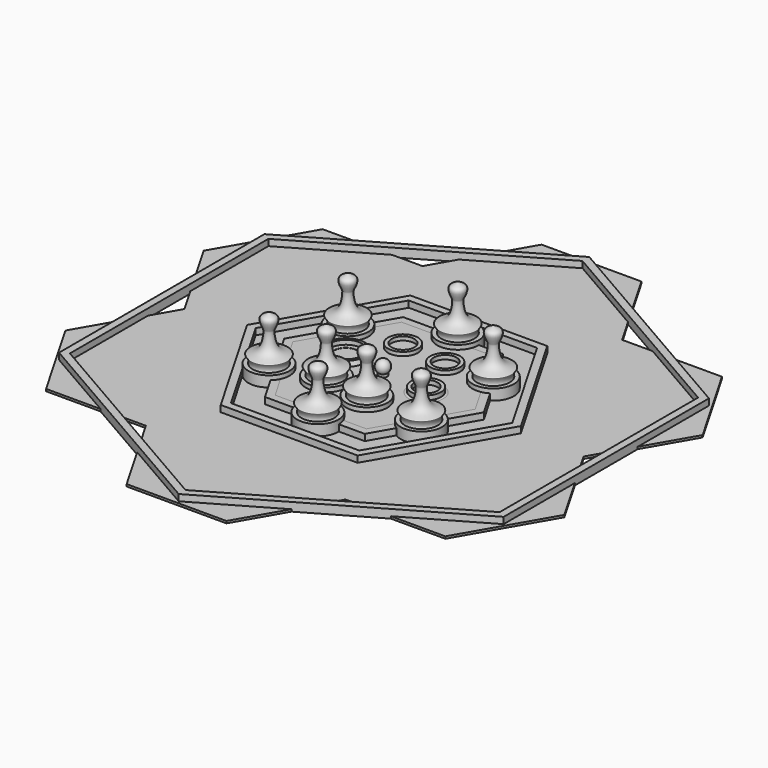
from build123d import *

# Parameters (mm, degrees)
BODY005_PLACEMENT_ANGLE = 180
PAD_DEPTH               = 0.75
PAD001_DEPTH            = 3
PAD002_DEPTH            = 3
PAD003_DEPTH            = 3
PAD004_DEPTH            = 3


with BuildPart() as flag:
    # Sketch001 → Revolution (revolve)
    with BuildSketch(Plane.XZ):
        with BuildLine():
            Line((0, 0), (-4, 0))
            Line((-4, 0), (-5.25, 2.5))
            Line((-5.25, 2.5), (-3, 2))
            Line((-3, 2), (-1.5, 2))
            Line((-1.5, 2), (-1.5, 4))
            ThreePointArc((0, 8), (-2.136001, 6.51975), (-1.5, 4))
            Line((0, 8), (0, 0))
        make_face()
    revolve(axis=Axis((0, 0, 0), (0, 0, 1)))


with BuildPart() as flag_1:
    # Body001 placement: moved
    add(flag.part.moved(Location((-0.38, 0, 0))))


with BuildPart() as resource:
    # Sketch002 → Revolution001 (revolve)
    with BuildSketch(Plane.XZ):
        Polygon((-7.5, -0.25), (-5.25, 0.5), (-5.25, 2), (-4, 2), (-4, 0.5), (0, 0.5), (0, -0.5), (-4, -0.5), (-4, -1), (-5.75, -1), (-5.75, -2.5), (-6.75, -2.5), align=None)
    revolve(axis=Axis((0, 0, 0), (0, 0, 1)))


with BuildPart() as resource_1:
    # Body002 placement: moved
    add(resource.part.moved(Location((-6.36, 16.28, 2.32))))


with BuildPart() as resource001:
    # Sketch003 → Revolution002 (revolve)
    with BuildSketch(Plane.XZ):
        Polygon((-7.5, -0.25), (-5.25, 0.5), (-5.25, 2), (-4, 2), (-4, 0.5), (0, 0.5), (0, -0.5), (-4, -0.5), (-4, -1), (-5.75, -1), (-5.75, -2.5), (-6.75, -2.5), align=None)
    revolve(axis=Axis((0, 0, 0), (0, 0, 1)))


with BuildPart() as resource001_1:
    # Body003 placement: moved
    add(resource001.part.moved(Location((9.67, 14.73, 2.42))))


with BuildPart() as resource002:
    # Sketch004 → Revolution003 (revolve)
    with BuildSketch(Plane.XZ):
        Polygon((-7.5, -0.25), (-5.25, 0.5), (-5.25, 2), (-4, 2), (-4, 0.5), (0, 0.5), (0, -0.5), (-4, -0.5), (-4, -1), (-5.75, -1), (-5.75, -2.5), (-6.75, -2.5), align=None)
    revolve(axis=Axis((0, 0, 0), (0, 0, 1)))


with BuildPart() as resource002_1:
    # Body004 placement: moved
    add(resource002.part.moved(Location((15.22, -0.59, 2.77))))


with BuildPart() as resource_secret:
    # Sketch005 → Revolution004 (revolve)
    with BuildSketch(Plane.XZ):
        Polygon((-7.5, -0.25), (-5.25, 0.5), (-5.25, 2), (-4, 2), (-4, 0.5), (0, 0.5), (0, -0.5), (-4, -0.5), (-4, -1), (-5.75, -1), (-5.75, -2.5), (-6.75, -2.5), align=None)
    revolve(axis=Axis((0, 0, 0), (0, 0, 1)))


with BuildPart() as resource_secret_1:
    # Body005 placement: moved
    add(resource_secret.part.moved(Location((-15.9, 3.09, 2.08))).rotate(Axis((-15.9, 3.09, 2.08), (0, 1, 0)), BODY005_PLACEMENT_ANGLE))


with BuildPart() as defender_a:
    # Sketch006 → Revolution005 (revolve)
    with BuildSketch(Plane.XZ):
        with BuildLine():
            Line((-5.75, 0), (-5.75, 3))
            Line((-5.75, 3), (0, 3))
            Line((0, 3), (0, 20))
            add(Edge.make_bspline(
                [(-5.75, 4.5), (-5.416941, 5.207053), (-6.165367, 7.274105), (-7.156686, 7.405588), (-2.24555, 8.343152), (-1.296315, 14.59573), (-1.789815, 15.465475), (-2.592544, 17.125224), (-2.811129, 19.163936), (0, 20.024207), (0, 20.024207), (0, 20)],
                knots=[0, 0, 0, 0, 0.111111, 0.222222, 0.333333, 0.444444, 0.555556, 0.666667, 0.777778, 0.888889, 1, 1, 1, 1], degree=3))
            Line((-5.75, 4.5), (-7.25, 4.5))
            Line((-7.25, 4.5), (-7.25, 0))
            Line((-7.25, 0), (-5.75, 0))
        make_face()
    revolve(axis=Axis((0, 0, 0), (0, 0, 1)))


with BuildPart() as defender_a_1:
    # Body006 placement: moved
    add(defender_a.part.moved(Location((-10.62, -11.96, 0))))


with BuildPart() as defender_b:
    # Sketch007 → Revolution006 (revolve)
    with BuildSketch(Plane.XZ):
        with BuildLine():
            Line((-5.75, 0), (-5.75, 3))
            Line((-5.75, 3), (0, 3))
            Line((0, 3), (0, 20))
            add(Edge.make_bspline(
                [(-5.75, 4.5), (-5.416941, 5.207053), (-6.165367, 7.274105), (-7.156686, 7.405588), (-2.24555, 8.343152), (-1.296315, 14.59573), (-1.789815, 15.465475), (-2.592544, 17.125224), (-2.811129, 19.163936), (0, 20.024207), (0, 20.024207), (0, 20)],
                knots=[0, 0, 0, 0, 0.111111, 0.222222, 0.333333, 0.444444, 0.555556, 0.666667, 0.777778, 0.888889, 1, 1, 1, 1], degree=3))
            Line((-5.75, 4.5), (-7.25, 4.5))
            Line((-7.25, 4.5), (-7.25, 0))
            Line((-7.25, 0), (-5.75, 0))
        make_face()
    revolve(axis=Axis((0, 0, 0), (0, 0, 1)))


with BuildPart() as defender_b_1:
    # Body007 placement: moved
    add(defender_b.part.moved(Location((5.41, -14.29, 0))))


with BuildPart() as invader_a:
    # Sketch008 → Revolution007 (revolve)
    with BuildSketch(Plane.XZ):
        with BuildLine():
            Line((-5.75, 0), (-5.75, 3))
            Line((-5.75, 3), (0, 3))
            Line((0, 3), (0, 20))
            add(Edge.make_bspline(
                [(-5.75, 4.5), (-5.416941, 5.207053), (-6.165367, 7.274105), (-7.156686, 7.405588), (-2.24555, 8.343152), (-1.296315, 14.59573), (-1.789815, 15.465475), (-2.592544, 17.125224), (-2.811129, 19.163936), (0, 20.024207), (0, 20.024207), (0, 20)],
                knots=[0, 0, 0, 0, 0.111111, 0.222222, 0.333333, 0.444444, 0.555556, 0.666667, 0.777778, 0.888889, 1, 1, 1, 1], degree=3))
            Line((-5.75, 4.5), (-7.25, 4.5))
            Line((-7.25, 4.5), (-7.25, 0))
            Line((-7.25, 0), (-5.75, 0))
        make_face()
    revolve(axis=Axis((0, 0, 0), (0, 0, 1)))


with BuildPart() as invader_a_1:
    # Body008 placement: moved
    add(invader_a.part.moved(Location((-27.36, -16.22, 0))))


with BuildPart() as invader_a001:
    # Sketch009 → Revolution008 (revolve)
    with BuildSketch(Plane.XZ):
        with BuildLine():
            Line((-5.75, 0), (-5.75, 3))
            Line((-5.75, 3), (0, 3))
            Line((0, 3), (0, 20))
            add(Edge.make_bspline(
                [(-5.75, 4.5), (-5.416941, 5.207053), (-6.165367, 7.274105), (-7.156686, 7.405588), (-2.24555, 8.343152), (-1.296315, 14.59573), (-1.789815, 15.465475), (-2.592544, 17.125224), (-2.811129, 19.163936), (0, 20.024207), (0, 20.024207), (0, 20)],
                knots=[0, 0, 0, 0, 0.111111, 0.222222, 0.333333, 0.444444, 0.555556, 0.666667, 0.777778, 0.888889, 1, 1, 1, 1], degree=3))
            Line((-5.75, 4.5), (-7.25, 4.5))
            Line((-7.25, 4.5), (-7.25, 0))
            Line((-7.25, 0), (-5.75, 0))
        make_face()
    revolve(axis=Axis((0, 0, 0), (0, 0, 1)))


with BuildPart() as invader_a001_1:
    # Body009 placement: moved
    add(invader_a001.part.moved(Location((-24.97, 15.39, 0))))


with BuildPart() as invader_a002:
    # Sketch010 → Revolution009 (revolve)
    with BuildSketch(Plane.XZ):
        with BuildLine():
            Line((-5.75, 0), (-5.75, 3))
            Line((-5.75, 3), (0, 3))
            Line((0, 3), (0, 20))
            add(Edge.make_bspline(
                [(-5.75, 4.5), (-5.416941, 5.207053), (-6.165367, 7.274105), (-7.156686, 7.405588), (-2.24555, 8.343152), (-1.296315, 14.59573), (-1.789815, 15.465475), (-2.592544, 17.125224), (-2.811129, 19.163936), (0, 20.024207), (0, 20.024207), (0, 20)],
                knots=[0, 0, 0, 0, 0.111111, 0.222222, 0.333333, 0.444444, 0.555556, 0.666667, 0.777778, 0.888889, 1, 1, 1, 1], degree=3))
            Line((-5.75, 4.5), (-7.25, 4.5))
            Line((-7.25, 4.5), (-7.25, 0))
            Line((-7.25, 0), (-5.75, 0))
        make_face()
    revolve(axis=Axis((0, 0, 0), (0, 0, 1)))


with BuildPart() as invader_a002_1:
    # Body010 placement: moved
    add(invader_a002.part.moved(Location((1.17, -30.44, 0))))


with BuildPart() as invader_a003:
    # Sketch011 → Revolution010 (revolve)
    with BuildSketch(Plane.XZ):
        with BuildLine():
            Line((-5.75, 0), (-5.75, 3))
            Line((-5.75, 3), (0, 3))
            Line((0, 3), (0, 20))
            add(Edge.make_bspline(
                [(-5.75, 4.5), (-5.416941, 5.207053), (-6.165367, 7.274105), (-7.156686, 7.405588), (-2.24555, 8.343152), (-1.296315, 14.59573), (-1.789815, 15.465475), (-2.592544, 17.125224), (-2.811129, 19.163936), (0, 20.024207), (0, 20.024207), (0, 20)],
                knots=[0, 0, 0, 0, 0.111111, 0.222222, 0.333333, 0.444444, 0.555556, 0.666667, 0.777778, 0.888889, 1, 1, 1, 1], degree=3))
            Line((-5.75, 4.5), (-7.25, 4.5))
            Line((-7.25, 4.5), (-7.25, 0))
            Line((-7.25, 0), (-5.75, 0))
        make_face()
    revolve(axis=Axis((0, 0, 0), (0, 0, 1)))


with BuildPart() as invader_a003_1:
    # Body011 placement: moved
    add(invader_a003.part.moved(Location((26.04, -16.17, 0))))


with BuildPart() as invader_a004:
    # Sketch012 → Revolution011 (revolve)
    with BuildSketch(Plane.XZ):
        with BuildLine():
            Line((-5.75, 0), (-5.75, 3))
            Line((-5.75, 3), (0, 3))
            Line((0, 3), (0, 20))
            add(Edge.make_bspline(
                [(-5.75, 4.5), (-5.416941, 5.207053), (-6.165367, 7.274105), (-7.156686, 7.405588), (-2.24555, 8.343152), (-1.296315, 14.59573), (-1.789815, 15.465475), (-2.592544, 17.125224), (-2.811129, 19.163936), (0, 20.024207), (0, 20.024207), (0, 20)],
                knots=[0, 0, 0, 0, 0.111111, 0.222222, 0.333333, 0.444444, 0.555556, 0.666667, 0.777778, 0.888889, 1, 1, 1, 1], degree=3))
            Line((-5.75, 4.5), (-7.25, 4.5))
            Line((-7.25, 4.5), (-7.25, 0))
            Line((-7.25, 0), (-5.75, 0))
        make_face()
    revolve(axis=Axis((0, 0, 0), (0, 0, 1)))


with BuildPart() as invader_a004_1:
    # Body012 placement: moved
    add(invader_a004.part.moved(Location((25.49, 16.05, 0))))


with BuildPart() as invader_a005:
    # Sketch013 → Revolution012 (revolve)
    with BuildSketch(Plane.XZ):
        with BuildLine():
            Line((-5.75, 0), (-5.75, 3))
            Line((-5.75, 3), (0, 3))
            Line((0, 3), (0, 20))
            add(Edge.make_bspline(
                [(-5.75, 4.5), (-5.416941, 5.207053), (-6.165367, 7.274105), (-7.156686, 7.405588), (-2.24555, 8.343152), (-1.296315, 14.59573), (-1.789815, 15.465475), (-2.592544, 17.125224), (-2.811129, 19.163936), (0, 20.024207), (0, 20.024207), (0, 20)],
                knots=[0, 0, 0, 0, 0.111111, 0.222222, 0.333333, 0.444444, 0.555556, 0.666667, 0.777778, 0.888889, 1, 1, 1, 1], degree=3))
            Line((-5.75, 4.5), (-7.25, 4.5))
            Line((-7.25, 4.5), (-7.25, 0))
            Line((-7.25, 0), (-5.75, 0))
        make_face()
    revolve(axis=Axis((0, 0, 0), (0, 0, 1)))


with BuildPart() as invader_a005_1:
    # Body013 placement: moved
    add(invader_a005.part.moved(Location((1.74, 30.19, 0))))


with BuildPart() as base:
    # Sketch017 → Pad (new body)
    with BuildSketch(Plane.XY):
        Polygon((17.5, 90.932667), (35, 60.621778), (70, 60.621778), (87.5, 30.310889), (70, 0), (87.5, -30.310889), (70, -60.621778), (35, -60.621778), (17.5, -90.932667), (-17.5, -90.932667), (-35, -60.621778), (-70, -60.621778), (-87.5, -30.310889), (-70, 0), (-87.5, 30.310889), (-70, 60.621778), (-35, 60.621778), (-17.5, 90.932667), align=None)
        Polygon((-17.5, 30.310889), (17.5, 30.310889), (35, 0), (17.5, -30.310889), (-17.5, -30.310889), (-35, 0), align=None, mode=Mode.SUBTRACT)
    extrude(amount=PAD_DEPTH)


with BuildPart() as anti_curve:
    # Sketch018 → Pad001 (new body)
    with BuildSketch(Plane.XY):
        Polygon((48, 0), (24, 41.569219), (-24, 41.569219), (-48, 0), (-24, -41.569219), (24, -41.569219), align=None)
        Polygon((22.5, 38.971143), (-22.5, 38.971143), (-45, 0), (-22.5, -38.971143), (22.5, -38.971143), (45, 0), align=None, mode=Mode.SUBTRACT)
    extrude(amount=PAD001_DEPTH)


with BuildPart() as body018:
    # Sketch019 → Pad002 (new body)
    with BuildSketch(Plane.XY):
        Polygon((77.942286, 45), (0, 90), (-77.942286, 45), (-77.942286, -45), (0, -90), (77.942286, -45), align=None)
        Polygon((75.34421, 43.5), (0, 87), (-75.34421, 43.5), (-75.34421, -43.5), (0, -87), (75.34421, -43.5), align=None, mode=Mode.SUBTRACT)
    extrude(amount=PAD002_DEPTH)


with BuildPart() as stencil_closed_35mm:
    # Sketch020 → Pad003 (new body)
    with BuildSketch(Plane.XY):
        Polygon((17.5, 30.310889), (-17.5, 30.310889), (-35, 0), (-17.5, -30.310889), (17.5, -30.310889), (35, 0), align=None)
    extrude(amount=PAD003_DEPTH)


with BuildPart() as stencil_closed_32mm:
    # Sketch021 → Pad004 (new body)
    with BuildSketch(Plane.XY):
        Polygon((16, 27.712813), (-16, 27.712813), (-32, 0), (-16, -27.712813), (16, -27.712813), (32, 0), align=None)
    extrude(amount=PAD004_DEPTH)


solid = Compound([flag_1.part, resource_1.part, resource001_1.part, resource002_1.part, resource_secret_1.part, defender_a_1.part, defender_b_1.part, invader_a_1.part, invader_a001_1.part, invader_a002_1.part, invader_a003_1.part, invader_a004_1.part, invader_a005_1.part, base.part, anti_curve.part, body018.part, stencil_closed_35mm.part, stencil_closed_32mm.part])
